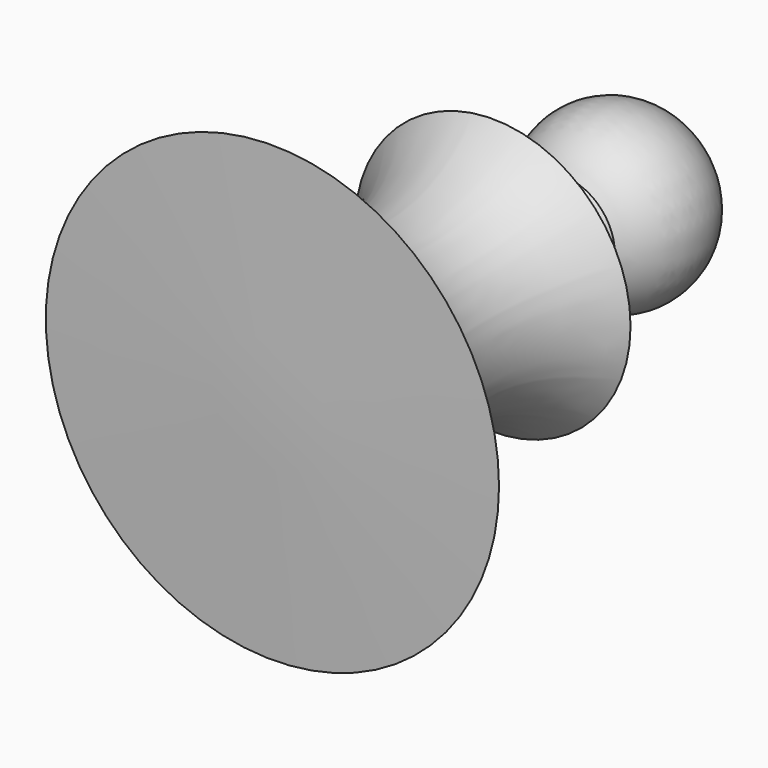
from build123d import *


with BuildPart() as f1:
    # F0 (on Top) → F1 (revolve)
    with BuildSketch(Plane.XY):
        with BuildLine():
            ThreePointArc((10.810618, 27.739361), (17.209887, 46.563278), (0, 56.518693))
            Line((0, 56.518693), (0, 25.584593))
            ThreePointArc((0, 25.584593), (5.600987, 25.680246), (10.810618, 27.739361))
        make_face()
        with BuildLine():
            ThreePointArc((10.810618, 27.739361), (5.600987, 25.680246), (0, 25.584593))
            Line((0, 25.584593), (0, -49.541075))
            Line((0, -49.541075), (47.447789, -48.37814))
            ThreePointArc((47.447789, -48.37814), (20.784759, -25.137178), (28.840814, 9.303489))
            ThreePointArc((28.840814, 9.303489), (13.347956, 12.186207), (10.810618, 27.739361))
        make_face()
    revolve(axis=Axis((0, 3.488809, 0), (0, -1, 0)))


solid = f1.part
